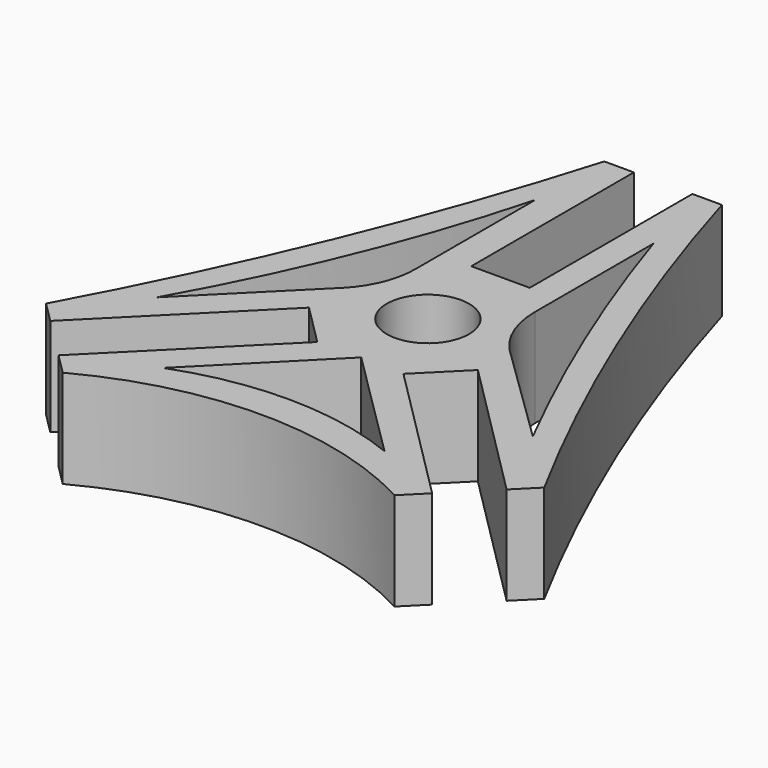
from build123d import *

# Parameters (mm, degrees)
F1_DEPTH = 25
F2_DEPTH = 25
F3_R     = 10.5
F4_DEPTH = 25
F6_DEPTH = 25


with BuildPart() as f1:
    # F0 (on Top) → F1 (new body)
    with BuildSketch(Plane.XY):
        with BuildLine():
            Line((-7.459, 75), (-15, 75))
            Line((-15, 75), (-15, 15))
            ThreePointArc((-15, 15), (-16.614759, 6.882058), (-21.213203, 0))
            Line((-21.213203, 0), (-63.534251, -42.321048))
            Line((-63.534251, -42.321048), (-58.201959, -47.65334))
            Line((-58.201959, -47.65334), (-21.537765, -10.989146))
            Line((-21.537765, -10.989146), (-10.989146, -21.537765))
            Line((-10.989146, -21.537765), (-47.65334, -58.201959))
            Line((-47.65334, -58.201959), (-42.321048, -63.534251))
            Line((-42.321048, -63.534251), (0, -21.213203))
            Line((0, -21.213203), (42.321048, -63.534251))
            Line((42.321048, -63.534251), (47.65334, -58.201959))
            Line((47.65334, -58.201959), (10.989146, -21.537765))
            Line((10.989146, -21.537765), (21.537765, -10.989146))
            Line((21.537765, -10.989146), (58.201959, -47.65334))
            Line((58.201959, -47.65334), (63.534251, -42.321048))
            Line((63.534251, -42.321048), (21.213203, 0))
            ThreePointArc((21.213203, 0), (16.614759, 6.882058), (15, 15))
            Line((15, 15), (15, 75))
            Line((15, 75), (7.459, 75))
            Line((7.459, 75), (7.459, 23.149))
            Line((7.459, 23.149), (-7.459, 23.149))
            Line((-7.459, 23.149), (-7.459, 75))
        make_face()
    extrude(amount=F1_DEPTH)

    # F0 (on Top) → F2 (join)
    with BuildSketch(Plane.XY):
        with BuildLine():
            Line((-15, 15), (-15, 75))
            ThreePointArc((-15, 75), (-36.186316, 15.064984), (-63.534251, -42.321048))
            Line((-63.534251, -42.321048), (-21.213203, 0))
            ThreePointArc((-21.213203, 0), (-16.614759, 6.882058), (-15, 15))
        make_face()
        with BuildLine():
            ThreePointArc((63.534251, -42.321048), (36.207052, 15.073562), (15, 75))
            Line((15, 75), (15, 15))
            ThreePointArc((15, 15), (16.614759, 6.882058), (21.213203, 0))
            Line((21.213203, 0), (63.534251, -42.321048))
        make_face()
        with BuildLine():
            Line((0, -21.213203), (-42.321048, -63.534251))
            ThreePointArc((-42.321048, -63.534251), (0, -52.921768), (42.321048, -63.534251))
            Line((42.321048, -63.534251), (0, -21.213203))
        make_face()
    extrude(amount=F2_DEPTH)

    # F3 (on face) → F4 (cut)
    with BuildSketch(Plane.XY.offset(25)):
        Circle(F3_R)
    extrude(amount=-F4_DEPTH, mode=Mode.SUBTRACT)

    # F5 (on face) → F6 (cut)
    with BuildSketch(Plane.XY.offset(25)):
        with BuildLine():
            ThreePointArc((-15.367649, 53.450763), (-29.148649, 12.456713), (-47.984254, -26.474612))
            Line((-47.984254, -26.474612), (-21.509642, 0))
            ThreePointArc((-21.509642, 0), (-16.96133, 6.99149), (-15.367649, 15.178569))
            Line((-15.367649, 15.178569), (-15.367649, 53.450763))
        make_face()
        with BuildLine():
            ThreePointArc((-28.007545, -49.472019), (0.463168, -44.355391), (28.851137, -49.912784))
            Line((28.851137, -49.912784), (0, -21.263063))
            Line((0, -21.263063), (-28.007545, -49.472019))
        make_face()
        with BuildLine():
            ThreePointArc((47.949795, -26.474612), (29.787416, 12.835137), (14.770781, 53.450763))
            Line((14.770781, 53.450763), (14.770781, 15.619874))
            ThreePointArc((14.770781, 15.619874), (16.322077, 7.253759), (20.769704, 0))
            Line((20.769704, 0), (47.949795, -26.474612))
        make_face()
    extrude(amount=-F6_DEPTH, mode=Mode.SUBTRACT)


solid = f1.part
